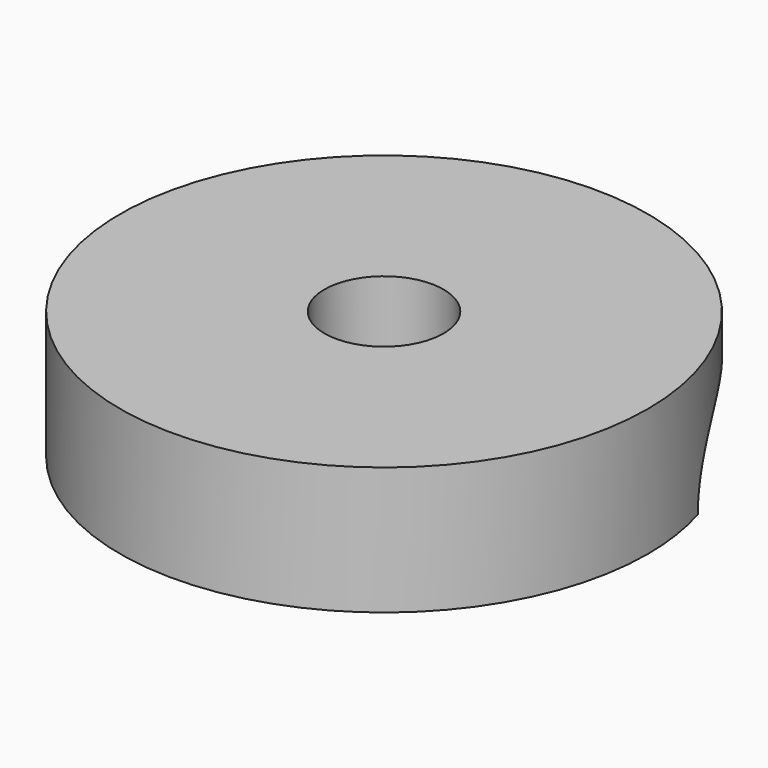
from build123d import *

# Parameters (mm, degrees)
F0_R     = 15.5
F2_DEPTH = 7.5
F3_R     = 5
F4_DEPTH = 20
F5_D     = 7


with BuildPart() as f2:
    # F0 (on Top) → F2 (new body)
    with BuildSketch(Plane.XY):
        Circle(F0_R)
    extrude(amount=F2_DEPTH)

    # F3 (on Right) → F4 (cut, symmetric)
    with BuildSketch(Plane.YZ):
        with Locations((9.5, 0)):
            Circle(F3_R)
    extrude(amount=F4_DEPTH, both=True, mode=Mode.SUBTRACT)

    # F5 (through all)
    with Locations(Plane(origin=(0, 0, 0), x_dir=(1, 0, 0), z_dir=(0, 0, -1))):
        with Locations((0, 0)):
            Hole(F5_D / 2)


solid = f2.part
